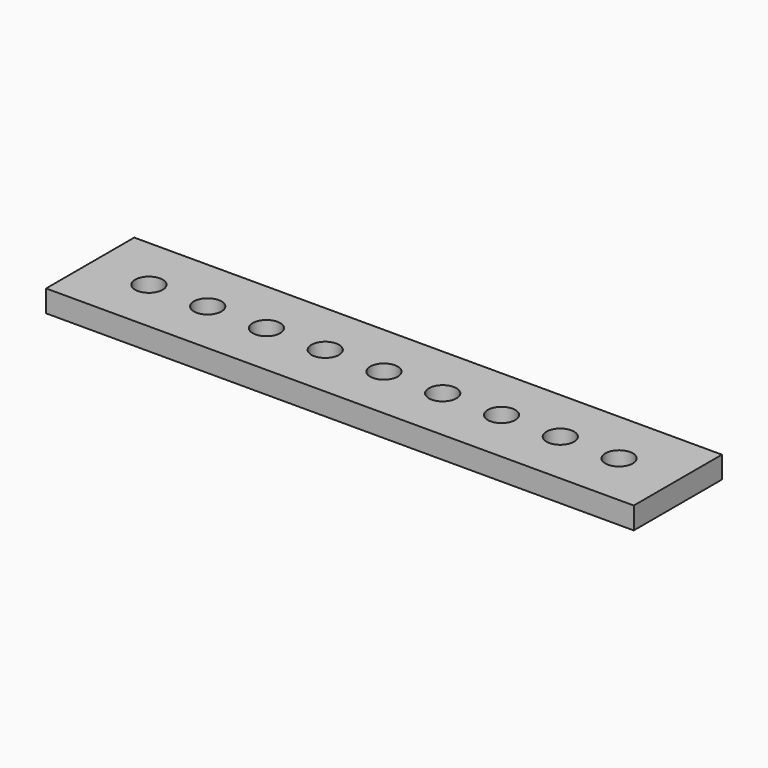
from build123d import *

# Parameters (mm, degrees)
F0_W     = 50.8
F0_H     = 9.525
F0_R     = 1.18999
F1_DEPTH = 1.89738


with BuildPart() as f1:
    # F0 (on Top) → F1 (new body)
    with BuildSketch(Plane.XY):
        with Locations((-14.25427, 12.872896)):
            Rectangle(F0_W, F0_H)
        with Locations((-14.25427, 12.863692)):
            Circle(F0_R, mode=Mode.SUBTRACT)
        with Locations((-9.17427, 12.863692)):
            Circle(F0_R, mode=Mode.SUBTRACT)
        with Locations((-34.57427, 12.872896)):
            Circle(F0_R, mode=Mode.SUBTRACT)
        with Locations((-29.49427, 12.872896)):
            Circle(F0_R, mode=Mode.SUBTRACT)
        with Locations((-24.41427, 12.872896)):
            Circle(F0_R, mode=Mode.SUBTRACT)
        with Locations((-19.33427, 12.872896)):
            Circle(F0_R, mode=Mode.SUBTRACT)
        with Locations((-4.09427, 12.872896)):
            Circle(F0_R, mode=Mode.SUBTRACT)
        with Locations((0.98573, 12.872896)):
            Circle(F0_R, mode=Mode.SUBTRACT)
        with Locations((6.06573, 12.872896)):
            Circle(F0_R, mode=Mode.SUBTRACT)
    extrude(amount=F1_DEPTH)


solid = f1.part
